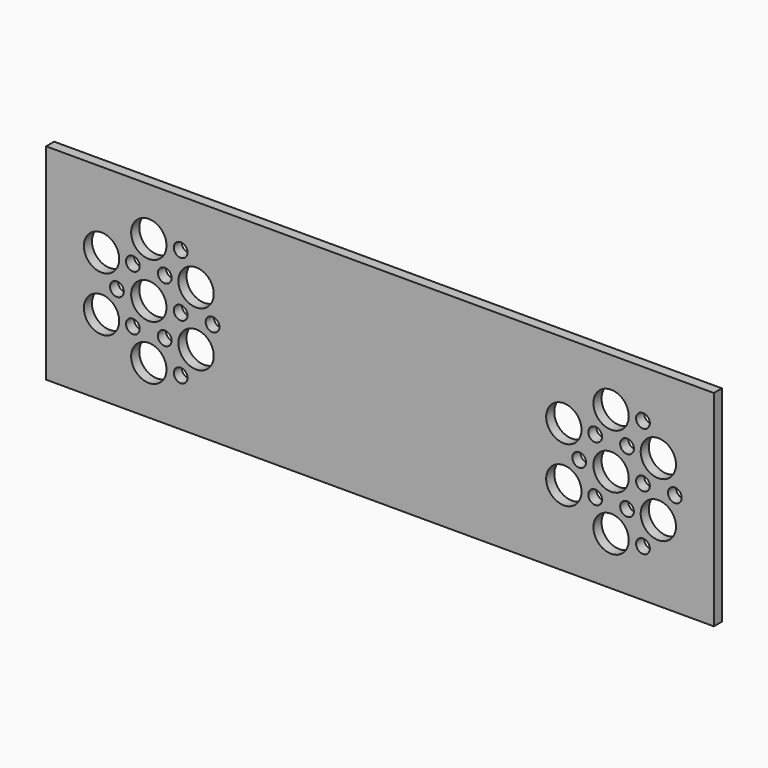
from build123d import *

# Parameters (mm, degrees)
F1_W     = 330.2
F1_H     = 101.6
F1_R     = 8.73125
F1_R_2   = 3.397434
F2_DEPTH = 5


with BuildPart() as f2:
    # F1 (on Front) → F2 (new body)
    with BuildSketch(Plane.XZ):
        Rectangle(F1_W, F1_H)
        with Locations((-114.3, -26.9875)):
            Circle(F1_R, mode=Mode.SUBTRACT)
        with Locations((-98.536217, -27.303673)):
            Circle(F1_R_2, mode=Mode.SUBTRACT)
        with Locations((-137.671861, -13.49375)):
            Circle(F1_R, mode=Mode.SUBTRACT)
        with Locations((-122.181891, -13.651836)):
            Circle(F1_R_2, mode=Mode.SUBTRACT)
        with Locations((-106.418109, -13.651836)):
            Circle(F1_R_2, mode=Mode.SUBTRACT)
        with Locations((-90.928139, -13.49375)):
            Circle(F1_R, mode=Mode.SUBTRACT)
        with Locations((-130.063783, 0)):
            Circle(F1_R_2, mode=Mode.SUBTRACT)
        with Locations((-114.3, 0)):
            Circle(F1_R, mode=Mode.SUBTRACT)
        with Locations((-98.536217, 0)):
            Circle(F1_R_2, mode=Mode.SUBTRACT)
        with Locations((-82.772434, 0)):
            Circle(F1_R_2, mode=Mode.SUBTRACT)
        with Locations((114.3, -26.9875)):
            Circle(F1_R, mode=Mode.SUBTRACT)
        with Locations((130.063783, -27.303673)):
            Circle(F1_R_2, mode=Mode.SUBTRACT)
        with Locations((90.928139, -13.49375)):
            Circle(F1_R, mode=Mode.SUBTRACT)
        with Locations((106.418109, -13.651836)):
            Circle(F1_R_2, mode=Mode.SUBTRACT)
        with Locations((122.181891, -13.651836)):
            Circle(F1_R_2, mode=Mode.SUBTRACT)
        with Locations((137.671861, -13.49375)):
            Circle(F1_R, mode=Mode.SUBTRACT)
        with Locations((98.536217, 0)):
            Circle(F1_R_2, mode=Mode.SUBTRACT)
        with Locations((114.3, 0)):
            Circle(F1_R, mode=Mode.SUBTRACT)
        with Locations((130.063783, 0)):
            Circle(F1_R_2, mode=Mode.SUBTRACT)
        with Locations((145.827566, 0)):
            Circle(F1_R_2, mode=Mode.SUBTRACT)
        with Locations((-137.671861, 13.49375)):
            Circle(F1_R, mode=Mode.SUBTRACT)
        with Locations((-122.181891, 13.651836)):
            Circle(F1_R_2, mode=Mode.SUBTRACT)
        with Locations((-106.418109, 13.651836)):
            Circle(F1_R_2, mode=Mode.SUBTRACT)
        with Locations((-90.928139, 13.49375)):
            Circle(F1_R, mode=Mode.SUBTRACT)
        with Locations((-114.3, 26.9875)):
            Circle(F1_R, mode=Mode.SUBTRACT)
        with Locations((-98.536217, 27.303673)):
            Circle(F1_R_2, mode=Mode.SUBTRACT)
        with Locations((90.928139, 13.49375)):
            Circle(F1_R, mode=Mode.SUBTRACT)
        with Locations((106.418109, 13.651836)):
            Circle(F1_R_2, mode=Mode.SUBTRACT)
        with Locations((122.181891, 13.651836)):
            Circle(F1_R_2, mode=Mode.SUBTRACT)
        with Locations((137.671861, 13.49375)):
            Circle(F1_R, mode=Mode.SUBTRACT)
        with Locations((114.3, 26.9875)):
            Circle(F1_R, mode=Mode.SUBTRACT)
        with Locations((130.063783, 27.303673)):
            Circle(F1_R_2, mode=Mode.SUBTRACT)
    extrude(amount=F2_DEPTH)


solid = f2.part
